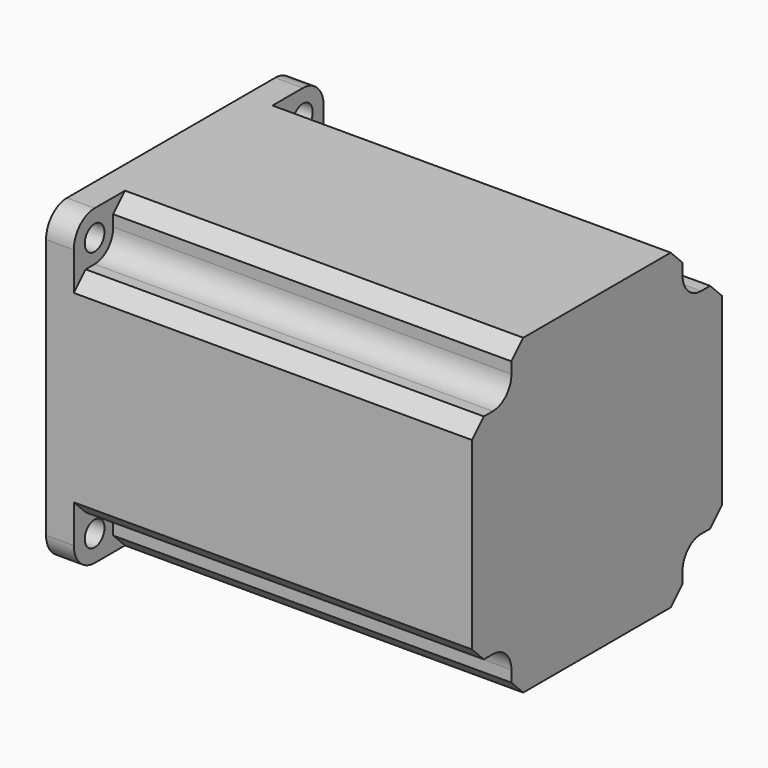
from build123d import *

# Parameters (mm, degrees)
F1_DEPTH = 71.882
F0_R     = 2.2225
F2_DEPTH = 5.0038


with BuildPart() as f1:
    # F0 (on Right) → F1 (new body)
    with BuildSketch(Plane.YZ):
        with BuildLine():
            Line((-23.495, 19.304), (-25.528179, 19.304))
            Line((-25.528179, 19.304), (-28.194, 16.638179))
            Line((-28.194, 16.638179), (-28.194, -16.638179))
            Line((-28.194, -16.638179), (-25.528179, -19.304))
            Line((-25.528179, -19.304), (-23.495, -19.304))
            ThreePointArc((-23.495, -19.304), (-20.531515, -20.531515), (-19.304, -23.495))
            Line((-19.304, -23.495), (-19.304, -25.528179))
            Line((-19.304, -25.528179), (-16.638179, -28.194))
            Line((-16.638179, -28.194), (16.638179, -28.194))
            Line((16.638179, -28.194), (19.304, -25.528179))
            Line((19.304, -25.528179), (19.304, -23.495))
            ThreePointArc((19.304, -23.495), (20.531515, -20.531515), (23.495, -19.304))
            Line((23.495, -19.304), (25.528179, -19.304))
            Line((25.528179, -19.304), (28.194, -16.638179))
            Line((28.194, -16.638179), (28.194, 16.638179))
            Line((28.194, 16.638179), (25.528179, 19.304))
            Line((25.528179, 19.304), (23.495, 19.304))
            ThreePointArc((23.495, 19.304), (20.531515, 20.531515), (19.304, 23.495))
            Line((19.304, 23.495), (19.304, 25.528179))
            Line((19.304, 25.528179), (16.638179, 28.194))
            Line((16.638179, 28.194), (-16.638179, 28.194))
            Line((-16.638179, 28.194), (-19.304, 25.528179))
            Line((-19.304, 25.528179), (-19.304, 23.495))
            ThreePointArc((-19.304, 23.495), (-20.531515, 20.531515), (-23.495, 19.304))
        make_face()
    extrude(amount=F1_DEPTH)

    # F0 (on Right) → F2 (join)
    with BuildSketch(Plane.YZ):
        with BuildLine():
            Line((-28.194, 16.638179), (-25.528179, 19.304))
            Line((-25.528179, 19.304), (-23.495, 19.304))
            ThreePointArc((-23.495, 19.304), (-20.531515, 20.531515), (-19.304, 23.495))
            Line((-19.304, 23.495), (-19.304, 25.528179))
            Line((-19.304, 25.528179), (-16.638179, 28.194))
            Line((-16.638179, 28.194), (-23.495, 28.194))
            ThreePointArc((-23.495, 28.194), (-26.817695, 26.817695), (-28.194, 23.495))
            Line((-28.194, 23.495), (-28.194, 16.638179))
        make_face()
        with Locations((-23.495, 23.495)):
            Circle(F0_R, mode=Mode.SUBTRACT)
        with BuildLine():
            Line((-23.495, 19.304), (-25.528179, 19.304))
            Line((-25.528179, 19.304), (-28.194, 16.638179))
            Line((-28.194, 16.638179), (-28.194, -16.638179))
            Line((-28.194, -16.638179), (-25.528179, -19.304))
            Line((-25.528179, -19.304), (-23.495, -19.304))
            ThreePointArc((-23.495, -19.304), (-20.531515, -20.531515), (-19.304, -23.495))
            Line((-19.304, -23.495), (-19.304, -25.528179))
            Line((-19.304, -25.528179), (-16.638179, -28.194))
            Line((-16.638179, -28.194), (16.638179, -28.194))
            Line((16.638179, -28.194), (19.304, -25.528179))
            Line((19.304, -25.528179), (19.304, -23.495))
            ThreePointArc((19.304, -23.495), (20.531515, -20.531515), (23.495, -19.304))
            Line((23.495, -19.304), (25.528179, -19.304))
            Line((25.528179, -19.304), (28.194, -16.638179))
            Line((28.194, -16.638179), (28.194, 16.638179))
            Line((28.194, 16.638179), (25.528179, 19.304))
            Line((25.528179, 19.304), (23.495, 19.304))
            ThreePointArc((23.495, 19.304), (20.531515, 20.531515), (19.304, 23.495))
            Line((19.304, 23.495), (19.304, 25.528179))
            Line((19.304, 25.528179), (16.638179, 28.194))
            Line((16.638179, 28.194), (-16.638179, 28.194))
            Line((-16.638179, 28.194), (-19.304, 25.528179))
            Line((-19.304, 25.528179), (-19.304, 23.495))
            ThreePointArc((-19.304, 23.495), (-20.531515, 20.531515), (-23.495, 19.304))
        make_face()
        with BuildLine():
            Line((-25.528179, -19.304), (-28.194, -16.638179))
            Line((-28.194, -16.638179), (-28.194, -23.495))
            ThreePointArc((-28.194, -23.495), (-26.817695, -26.817695), (-23.495, -28.194))
            Line((-23.495, -28.194), (-16.638179, -28.194))
            Line((-16.638179, -28.194), (-19.304, -25.528179))
            Line((-19.304, -25.528179), (-19.304, -23.495))
            ThreePointArc((-19.304, -23.495), (-20.531515, -20.531515), (-23.495, -19.304))
            Line((-23.495, -19.304), (-25.528179, -19.304))
        make_face()
        with Locations((-23.495, -23.495)):
            Circle(F0_R, mode=Mode.SUBTRACT)
        with BuildLine():
            Line((23.495, 28.194), (16.638179, 28.194))
            Line((16.638179, 28.194), (19.304, 25.528179))
            Line((19.304, 25.528179), (19.304, 23.495))
            ThreePointArc((19.304, 23.495), (20.531515, 20.531515), (23.495, 19.304))
            Line((23.495, 19.304), (25.528179, 19.304))
            Line((25.528179, 19.304), (28.194, 16.638179))
            Line((28.194, 16.638179), (28.194, 23.495))
            ThreePointArc((28.194, 23.495), (26.817695, 26.817695), (23.495, 28.194))
        make_face()
        with Locations((23.495, 23.495)):
            Circle(F0_R, mode=Mode.SUBTRACT)
        with BuildLine():
            Line((19.304, -25.528179), (16.638179, -28.194))
            Line((16.638179, -28.194), (23.495, -28.194))
            ThreePointArc((23.495, -28.194), (26.817695, -26.817695), (28.194, -23.495))
            Line((28.194, -23.495), (28.194, -16.638179))
            Line((28.194, -16.638179), (25.528179, -19.304))
            Line((25.528179, -19.304), (23.495, -19.304))
            ThreePointArc((23.495, -19.304), (20.531515, -20.531515), (19.304, -23.495))
            Line((19.304, -23.495), (19.304, -25.528179))
        make_face()
        with Locations((23.495, -23.495)):
            Circle(F0_R, mode=Mode.SUBTRACT)
    extrude(amount=-F2_DEPTH)


solid = f1.part
